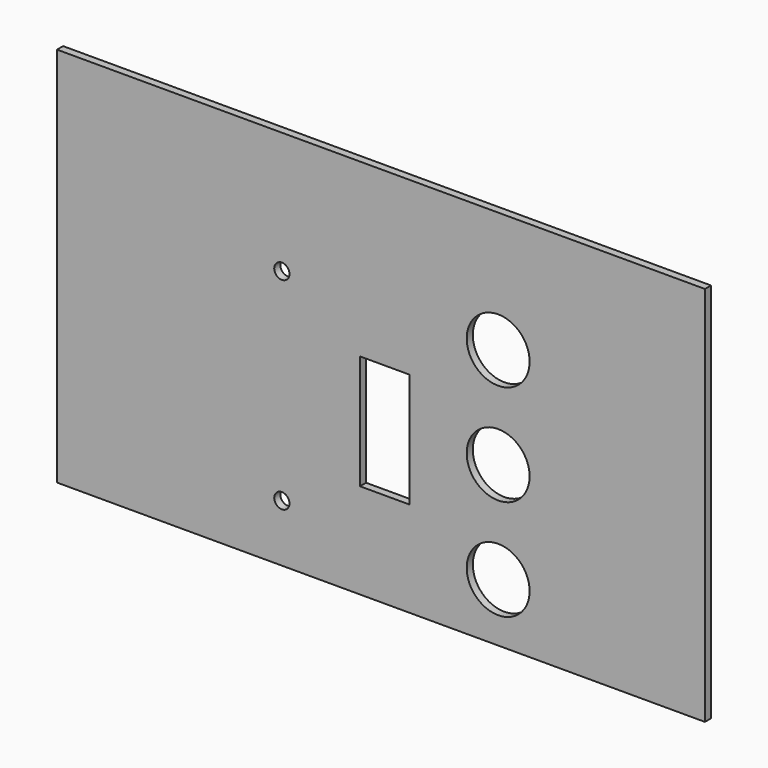
from build123d import *

# Parameters (mm, degrees)
F0_W     = 170
F0_H     = 100
F1_DEPTH = 2
F2_R     = 8.25
F2_W     = 13
F2_H     = 30
F2_R_2   = 2
F3_DEPTH = 25


with BuildPart() as f1:
    # F0 (on Front) → F1 (new body)
    with BuildSketch(Plane.XZ):
        Rectangle(F0_W, F0_H)
    extrude(amount=F1_DEPTH)

    # F2 (on face) → F3 (cut)
    with BuildSketch(Plane.XZ.offset(2)):
        with Locations((30.75, -34.75)):
            Circle(F2_R)
        with Locations((30.75, -8.25)):
            Circle(F2_R)
        with Locations((30.75, 18.25)):
            Circle(F2_R)
        with Locations((1, -10)):
            Rectangle(F2_W, F2_H)
        with Locations((-26, -35)):
            Circle(F2_R_2)
        with Locations((-26, 18)):
            Circle(F2_R_2)
    extrude(amount=-F3_DEPTH, mode=Mode.SUBTRACT)


solid = f1.part
